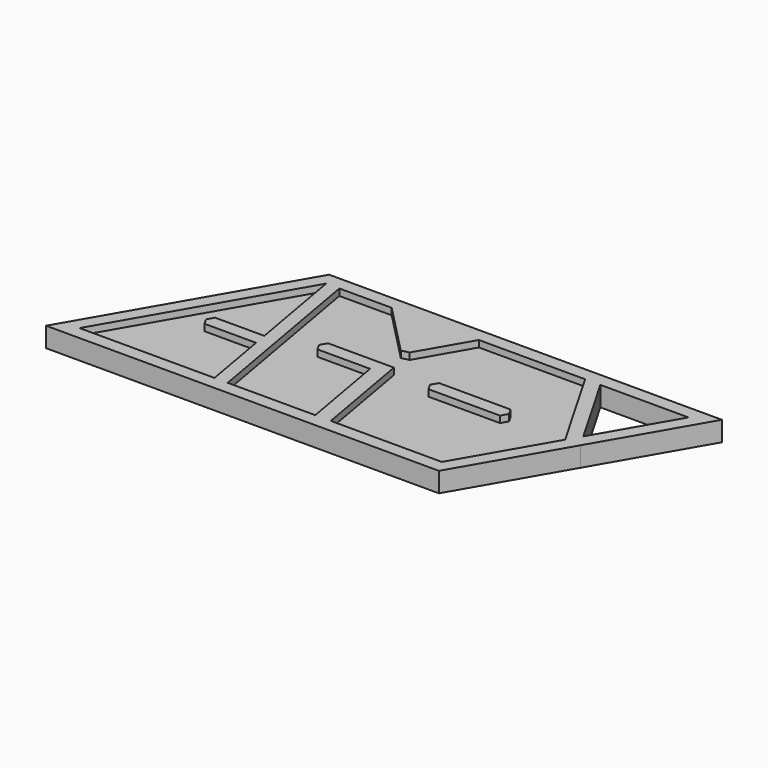
from build123d import *

# Parameters (mm, degrees)
F1_DEPTH = 2
F2_DEPTH = 3


with BuildPart() as f1:
    # F0 (on Top) → F1 (new body)
    with BuildSketch(Plane.XY):
        Polygon((-18.2464108846, 11.7113475275), (-33.8927962614, -15.3889868999), (-13.4678907388, -15.3889868999), (-15.2466582433, -5.3010950903), (-23.0469053902, -5.3010950903), (-23.6242556594, -4.3010950903), (-23.0469053902, -3.3010950903), (-15.5993122047, -3.3010950903), align=None)
    extrude(amount=F1_DEPTH)



with BuildPart() as f1b:
    # F0 (on Top) → F1, piece 2 (new body)
    with BuildSketch(Plane.XY):
        Polygon((-16.2464108846, 11.7113475275), (-11.4678907388, -15.3889868999), (-0.5617896535, -15.3889868999), (1.4382103465, -15.3889868999), (1.7851558166, -15.3889868999), (-0.5617896535, -2.078797724), (-8.5276595022, -2.078797724), (-9.1050097714, -1.078797724), (-8.5276595022, -0.078797724), (1.4382103465, -0.078797724), (4.137809778, -15.3889868999), (20.9472483989, -15.3889868999), (28.7704410873, -1.8388196862), (20.9472483989, 11.7113475275), (4.8681087356, 11.7113475275), (0.4830753681, 4.1162469421), (-0.6402473631, 3.8304019006), (-8.3246870782, 11.7113475275), align=None)
        Polygon((19.4851677419, -0.8388196862), (18.9078174727, -1.8388196862), (8.0837683482, -1.8388196862), (7.5064180791, -0.8388196862), (8.0837683482, 0.1611803138), (18.9078174727, 0.1611803138), align=None, mode=Mode.SUBTRACT)
    extrude(amount=F1_DEPTH)


with BuildPart() as f1_1:
    add(f1.part)

    add(f1b.part)  # F2 merges F1b
    # F0 (on Top) → F2 (join)
    with BuildSketch(Plane.XY):
        Polygon((22.1019489373, 13.7113475275), (-19.401111423, 13.7113475275), (-37.3568978765, -17.3889868999), (-13.9558746851, -17.3889868999), (22.1019489373, -17.3889868999), (31.079842164, -1.8388196862), (40.0577353908, 13.7113475275), align=None)
        Polygon((-13.4678907388, -15.3889868999), (-33.8927962614, -15.3889868999), (-18.2464108846, 11.7113475275), (-16.2464108846, 11.7113475275), (-8.3246870782, 11.7113475275), (-5.5734554462, 11.7113475275), (4.8681087356, 11.7113475275), (20.9472483989, 11.7113475275), (28.7704410873, -1.8388196862), (20.9472483989, -15.3889868999), (4.137809778, -15.3889868999), (1.7851558166, -15.3889868999), (1.4382103465, -15.3889868999), (-0.5617896535, -15.3889868999), (-11.4678907388, -15.3889868999), align=None, mode=Mode.SUBTRACT)
        Polygon((36.5936337757, 11.7113475275), (29.9251416257, 0.1611803138), (23.2566494757, 11.7113475275), align=None, mode=Mode.SUBTRACT)
        Polygon((-23.0469053902, -5.3010950903), (-15.2466582433, -5.3010950903), (-15.5993122047, -3.3010950903), (-23.0469053902, -3.3010950903), (-23.6242556594, -4.3010950903), align=None)
        Polygon((-15.2466582433, -5.3010950903), (-13.4678907388, -15.3889868999), (-11.4678907388, -15.3889868999), (-16.2464108846, 11.7113475275), (-18.2464108846, 11.7113475275), (-15.5993122047, -3.3010950903), align=None)
        Polygon((-0.5617896535, -2.078797724), (1.7851558166, -15.3889868999), (4.137809778, -15.3889868999), (1.4382103465, -0.078797724), (-8.5276595022, -0.078797724), (-9.1050097714, -1.078797724), (-8.5276595022, -2.078797724), align=None)
        Polygon((-5.5734554462, 11.7113475275), (-8.3246870782, 11.7113475275), (-0.6402473631, 3.8304019006), (0.4830753681, 4.1162469421), (0.7917058952, 5.2266503978), align=None)
        Polygon((4.8681087356, 11.7113475275), (-5.5734554462, 11.7113475275), (0.7917058952, 5.2266503978), (0.4830753681, 4.1162469421), align=None)
        Polygon((8.0837683482, -1.8388196862), (18.9078174727, -1.8388196862), (19.4851677419, -0.8388196862), (18.9078174727, 0.1611803138), (8.0837683482, 0.1611803138), (7.5064180791, -0.8388196862), align=None)
    extrude(amount=F2_DEPTH)


solid = f1_1.part
